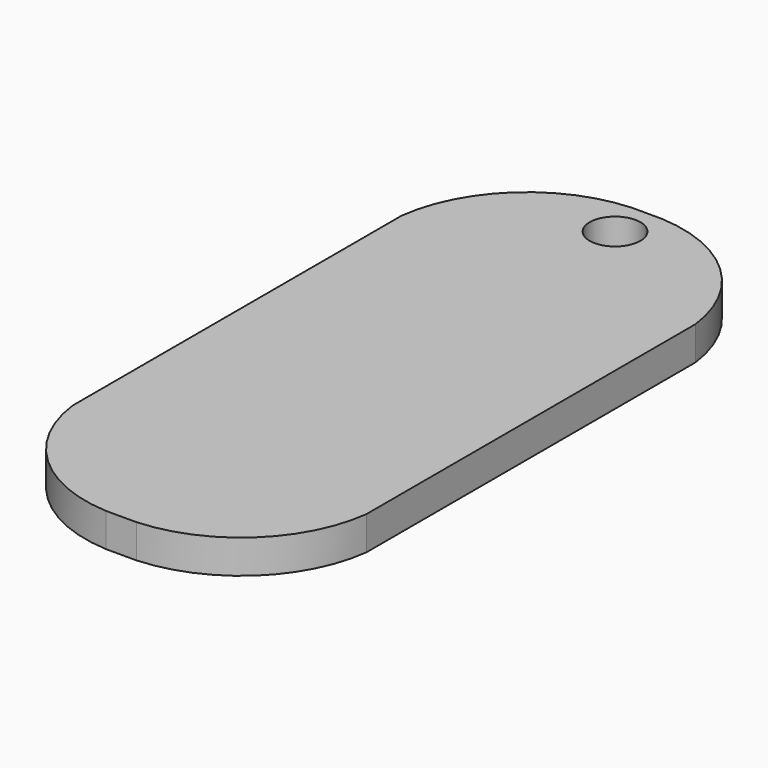
from build123d import *

# Parameters (mm, degrees)
F0_W     = 33.262584
F0_H     = 74.359216
F1_DEPTH = 3.81
F2_R     = 2.86769
F3_DEPTH = 3.811


with BuildPart() as f1:
    # F0 (on Top) → F1 (new body)
    with BuildSketch(Plane.XY):
        Rectangle(F0_W, F0_H)
    extrude(amount=F1_DEPTH)

    # F2 (on face) → F3 (cut, through all)
    with BuildSketch(Plane.XY.offset(3.81)):
        with BuildLine():
            ThreePointArc((1.720342, 37.179608), (11.696292, 32.936492), (16.631292, 23.284063))
            Line((16.631292, 23.284063), (16.631292, 37.179608))
            Line((16.631292, 37.179608), (1.720342, 37.179608))
        make_face()
        with BuildLine():
            ThreePointArc((-16.631292, 23.284063), (-11.696292, 32.936492), (-1.720342, 37.179608))
            Line((-1.720342, 37.179608), (-16.631292, 37.179608))
            Line((-16.631292, 37.179608), (-16.631292, 23.284063))
        make_face()
        with BuildLine():
            Line((-16.631292, -37.179608), (-1.720342, -37.179608))
            ThreePointArc((-1.720342, -37.179608), (-11.696292, -32.936492), (-16.631292, -23.284063))
            Line((-16.631292, -23.284063), (-16.631292, -37.179608))
        make_face()
        with BuildLine():
            Line((16.631292, -37.179608), (16.631292, -23.284063))
            ThreePointArc((16.631292, -23.284063), (11.696292, -32.936492), (1.720342, -37.179608))
            Line((1.720342, -37.179608), (16.631292, -37.179608))
        make_face()
        with Locations((0, 32.69314)):
            Circle(F2_R)
    extrude(amount=-F3_DEPTH, mode=Mode.SUBTRACT)


solid = f1.part
